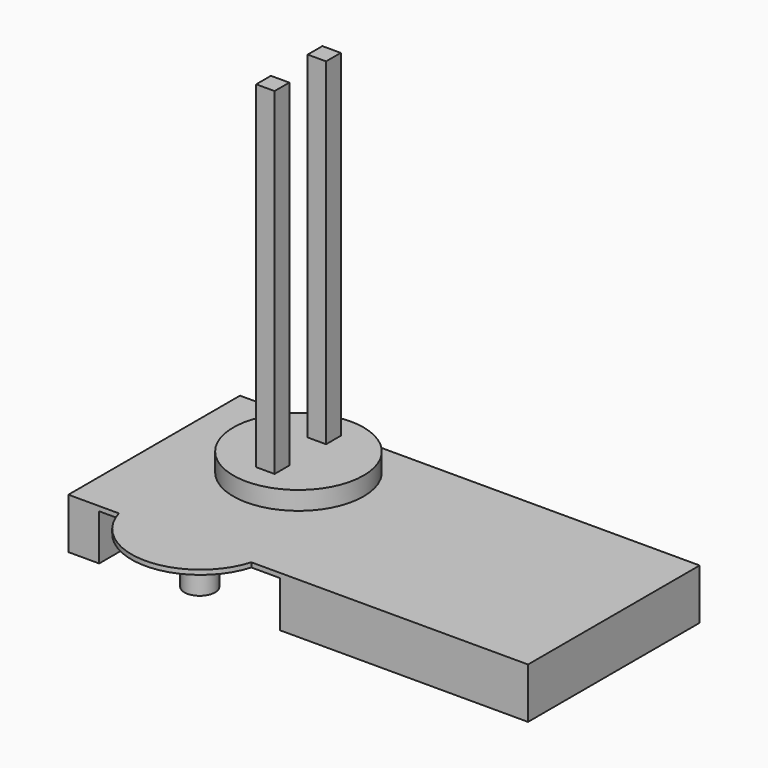
from build123d import *

# Parameters (mm, degrees)
F0_R      = 42.5
F1_DEPTH  = 15
F3_DEPTH  = 30
F2_R      = 22.5
F4_DEPTH  = 3
F5_R      = 10
F6_DEPTH  = 30
F7_DEPTH  = 15
F8_R      = 10
F9_DEPTH  = 30
F11_DEPTH = 220


with BuildPart() as f1:
    # F0 (on Top) → F1 (new body)
    with BuildSketch(Plane.XY):
        Circle(F0_R)
    extrude(amount=F1_DEPTH)

    # F2 (on Top) → F3 (join)
    with BuildSketch(Plane.XY):
        Polygon((223.814484, 47.5), (-76.185516, 47.5), (-76.185516, -92.5), (-56.101405, -92.5), (-56.101405, -22.5), (-31.101405, -22.5), (-31.101405, 33.5), (31.898595, 33.5), (31.898595, -22.5), (61.898595, -22.5), (61.898595, -92.5), (223.814484, -92.5), align=None)
        Polygon((223.814484, 47.5), (-76.185516, 47.5), (-76.185516, -92.5), (-56.101405, -92.5), (-56.101405, -22.5), (-31.101405, -22.5), (-31.101405, 33.5), (31.898595, 33.5), (31.898595, -22.5), (61.898595, -22.5), (61.898595, -92.5), (223.814484, -92.5), align=None)
    extrude(amount=-F3_DEPTH)

    # F2 (on Top) → F4 (join)
    with BuildSketch(Plane.XY):
        Polygon((223.814484, 47.5), (-76.185516, 47.5), (-76.185516, -92.5), (-56.101405, -92.5), (-56.101405, -22.5), (-31.101405, -22.5), (-31.101405, 33.5), (31.898595, 33.5), (31.898595, -22.5), (61.898595, -22.5), (61.898595, -92.5), (223.814484, -92.5), align=None)
        with BuildLine():
            Line((-56.101405, -22.5), (-56.101405, -92.5))
            Line((-56.101405, -92.5), (-43.213305, -92.5))
            ThreePointArc((-43.213305, -92.5), (-6.340398, -35.394619), (45, -79.945706))
            ThreePointArc((45, -79.945706), (44.551087, -86.286104), (43.213305, -92.5))
            Line((43.213305, -92.5), (61.898595, -92.5))
            Line((61.898595, -92.5), (61.898595, -22.5))
            Line((61.898595, -22.5), (31.898595, -22.5))
            Line((31.898595, -22.5), (31.898595, 33.5))
            Line((31.898595, 33.5), (-31.101405, 33.5))
            Line((-31.101405, 33.5), (-31.101405, -22.5))
            Line((-31.101405, -22.5), (-56.101405, -22.5))
        make_face()
        Circle(F2_R, mode=Mode.SUBTRACT)
        with BuildLine():
            ThreePointArc((45, -79.945706), (-6.340398, -35.394619), (-43.213305, -92.5))
            ThreePointArc((-43.213305, -92.5), (0, -124.945706), (43.213305, -92.5))
            ThreePointArc((43.213305, -92.5), (44.551087, -86.286104), (45, -79.945706))
        make_face()
    extrude(amount=F4_DEPTH)

    # F5 (on Top) → F6 (join)
    with BuildSketch(Plane.XY):
        Circle(F5_R)
    extrude(amount=-F6_DEPTH)

    # F5 (on Top) → F7 (join)
    with BuildSketch(Plane.XY):
        Circle(F5_R)
    extrude(amount=F7_DEPTH)

    # F8 (on Top) → F9 (join)
    with BuildSketch(Plane.XY):
        with Locations((0, -80.542963)):
            Circle(F8_R)
    extrude(amount=-F9_DEPTH)

    # F10 (on face) → F11 (join)
    with BuildSketch(Plane.XY.offset(15)):
        Polygon((-6, 27), (-6, 15), (0, 15), (6, 15), (6, 27), align=None)
        Polygon((6, -15), (0, -15), (-6, -15), (-6, -27), (6, -27), align=None)
    extrude(amount=F11_DEPTH)


solid = f1.part
